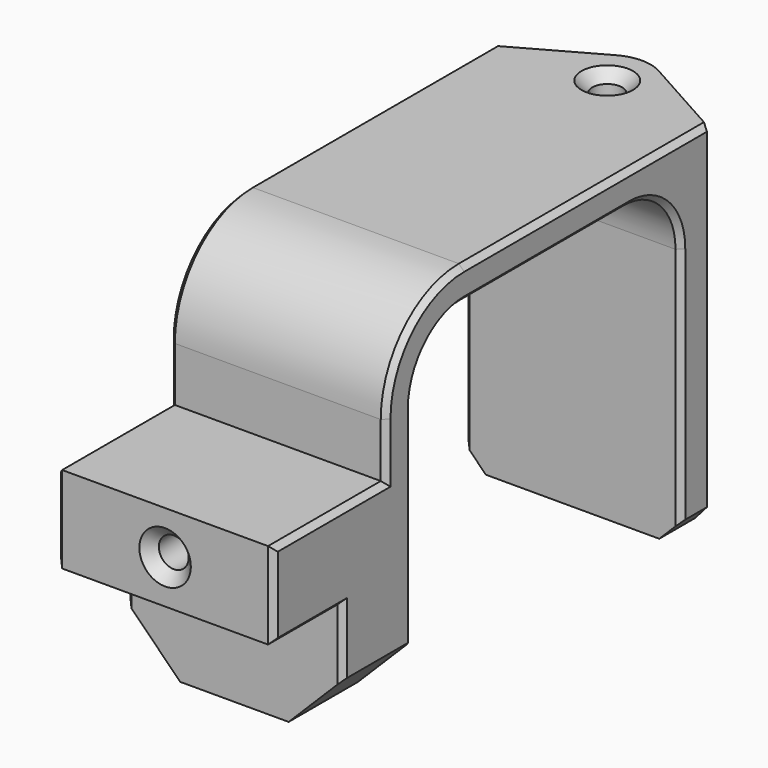
from build123d import *

# Parameters (mm, degrees)
BOX_W             = 10
BOX_H             = 50
BOX_DEPTH         = 33
SKETCH005_W       = 31
SKETCH005_H       = 30
SKETCH005_W_2     = 13
SKETCH005_H_2     = 14
SKETCH005_W_3     = 8
SKETCH005_H_3     = 11
POCKET003_DEPTH   = 10
CHAMFER009_SIZE   = 5
FILLET004_1_R     = 9
FILLET004_2_R     = 6
SKETCH010_R       = 1.375
POCKET006_DEPTH   = 8
SKETCH011_R       = 1.375
POCKET007_DEPTH   = 8
CHAMFER011_SIZE   = 1
PAD004_DEPTH      = 33
SKETCH016_R       = 1.375
POCKET011_DEPTH   = 8
SKETCH025_R       = 1.375
POCKET017_DEPTH   = 8
CHAMFER012_1_SIZE = 2
CHAMFER012_2_SIZE = 1
CHAMFER015_SIZE   = 0.5


with BuildPart() as batterybracketbatteryfillet004:
    # Box → Box (new body)
    with BuildSketch(Plane(origin=(0, 4.5, -15), x_dir=(1, 0, 0), z_dir=(0, 0, 1))):
        with Locations((5, 25)):
            Rectangle(BOX_W, BOX_H)
    extrude(amount=BOX_DEPTH)

    # Sketch005 → Pocket003 (cut)
    with BuildSketch(Plane(origin=(10, 4.5, -15), x_dir=(0, 1, 0), z_dir=(1, 0, 0))):
        with Locations((31.5, 15)):
            Rectangle(SKETCH005_W, SKETCH005_H)
        with Locations((6.5, 26)):
            Rectangle(SKETCH005_W_2, SKETCH005_H_2)
        with Locations((4, 5.5)):
            Rectangle(SKETCH005_W_3, SKETCH005_H_3)
    extrude(amount=-POCKET003_DEPTH, mode=Mode.SUBTRACT)

    # Chamfer009
    chamfer009_edges = [batterybracketbatteryfillet004.edges().sort_by_distance(p)[0] for p in [
        (10, 16.5, -15),
    ]]
    chamfer(chamfer009_edges, length=CHAMFER009_SIZE)

    # Fillet004 1
    fillet004_1_edges = [batterybracketbatteryfillet004.edges().sort_by_distance(p)[0] for p in [
        (5, 17.5, 18),
    ]]
    fillet(fillet004_1_edges, radius=FILLET004_1_R)

    # Fillet004 2
    fillet004_2_edges = [batterybracketbatteryfillet004.edges().sort_by_distance(p)[0] for p in [
        (5, 20.5, 15),
        (5, 51.5, 15),
    ]]
    fillet(fillet004_2_edges, radius=FILLET004_2_R)


with BuildPart() as batterybracketprintingchamfer021_final:
    # Part__Mirroring003: instance of BatteryBracketBatteryFillet004
    add(batterybracketbatteryfillet004.part.mirror(Plane(origin=(0, 0, 0), x_dir=(0, -1, 0), z_dir=(1, 0, 0))))

    # Fusion: union BatteryBracketBatteryFillet004
    add(batterybracketbatteryfillet004.part)

    # Sketch010 → Pocket006 (cut)
    with BuildSketch(Plane.XZ.offset(-4.5)):
        Circle(SKETCH010_R)
    extrude(amount=-POCKET006_DEPTH, mode=Mode.SUBTRACT)

    # Sketch011 → Pocket007 (cut)
    with BuildSketch(Plane(origin=(0, 0, -15), x_dir=(1, 0, 0), z_dir=(0, 0, -1))):
        with Locations((0, -16.5)):
            Circle(SKETCH011_R)
    extrude(amount=-POCKET007_DEPTH, mode=Mode.SUBTRACT)

    # Chamfer011
    chamfer011_edges = [batterybracketprintingchamfer021_final.edges().sort_by_distance(p)[0] for p in [
        (-1.375, 4.5, 0),
        (-1.375, 16.5, -15),
    ]]
    chamfer(chamfer011_edges, length=CHAMFER011_SIZE)

    # Sketch015 → Pad004 (new body)
    with BuildSketch(Plane.XY.offset(18)):
        with BuildLine():
            Line((10, 54.5), (1.949289, 58.992889))
            ThreePointArc((1.949289, 58.992889), (0, 59.5), (-1.949289, 58.992889))
            Line((-1.949289, 58.992889), (-10, 54.5))
            Line((-10, 54.5), (10, 54.5))
        make_face()
    extrude(amount=-PAD004_DEPTH)

    # Sketch016 → Pocket011 (cut)
    with BuildSketch(Plane.XY.offset(18)):
        with Locations((0, 55.5)):
            Circle(SKETCH016_R)
    extrude(amount=-POCKET011_DEPTH, mode=Mode.SUBTRACT)

    # Sketch025 → Pocket017 (cut)
    with BuildSketch(Plane(origin=(0, 0, -15), x_dir=(1, 0, 0), z_dir=(0, 0, -1))):
        with Locations((0, -55.5)):
            Circle(SKETCH025_R)
    extrude(amount=-POCKET017_DEPTH, mode=Mode.SUBTRACT)

    # Chamfer012 1
    chamfer012_1_edges = [batterybracketprintingchamfer021_final.edges().sort_by_distance(p)[0] for p in [
        (-10, 53, -15),
        (10, 53, -15),
    ]]
    chamfer(chamfer012_1_edges, length=CHAMFER012_1_SIZE)

    # Chamfer012 2
    chamfer012_2_edges = [batterybracketprintingchamfer021_final.edges().sort_by_distance(p)[0] for p in [
        (-1.375, 55.5, -15),
        (-1.375, 55.5, 18),
    ]]
    chamfer(chamfer012_2_edges, length=CHAMFER012_2_SIZE)

    # Chamfer015
    chamfer015_edges = [batterybracketprintingchamfer021_final.edges().sort_by_distance(p)[0] for p in [
        (-10, 51.5, -2),
        (-10, 49.742641, 13.242641),
        (-10, 36, 15),
        (-10, 40.5, 18),
        (-10, 22.257359, 13.242641),
        (-10, 20.136039, 15.363961),
        (-10, 20.5, -0.5),
        (-10, 17.5, 6.5),
        (-10, 11, 4),
        (-10, 12.5, -7),
        (-10, 4.5, 0),
        (-10, 8.5, -4),
        (10, 51.5, -2),
        (10, 36, 15),
        (10, 40.5, 18),
        (10, 20.5, -0.5),
        (10, 17.5, 6.5),
        (10, 11, 4),
        (10, 12.5, -7),
        (10, 4.5, 0),
        (10, 8.5, -4),
        (10, 49.742641, 13.242641),
        (10, 22.257359, 13.242641),
        (10, 20.136039, 15.363961),
    ]]
    chamfer(chamfer015_edges, length=CHAMFER015_SIZE)


solid = batterybracketprintingchamfer021_final.part
